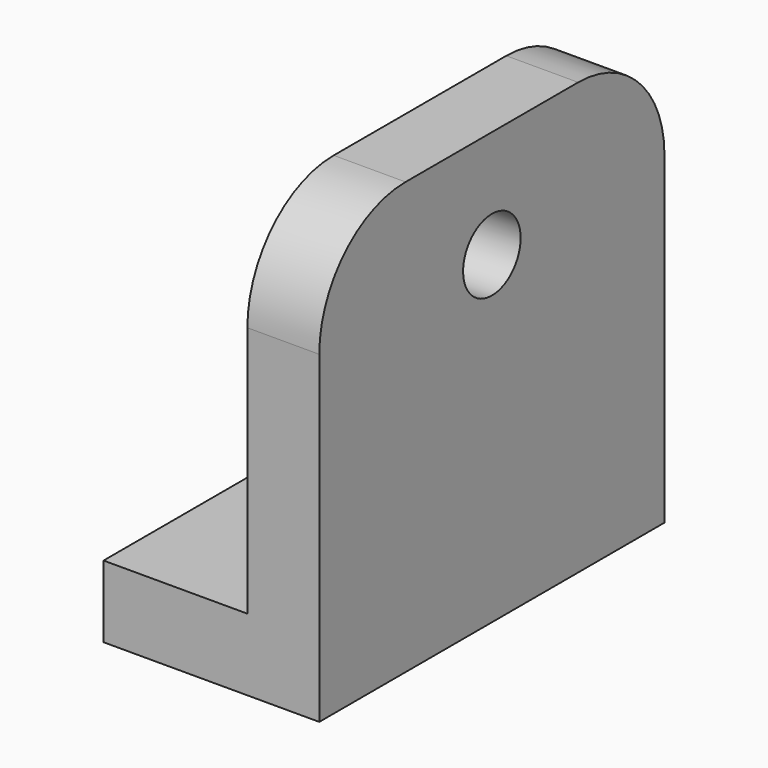
from build123d import *

# Parameters (mm, degrees)
F1_DEPTH = 76.2
F2_R     = 12.7
F3_DEPTH = 76.201
F5_DEPTH = 25.401
F6_R     = 19.05
F6_R_2   = 12.7
F7_DEPTH = 6.35
F8_R     = 38.1


with BuildPart() as f1:
    # F0 (on Front) → F1 (new body, symmetric)
    with BuildSketch(Plane.XZ):
        Polygon((-76.2, 0), (0, 0), (0, 152.4), (-25.4, 152.4), (-25.4, 25.4), (-76.2, 25.4), align=None)
    extrude(amount=F1_DEPTH, both=True)

    # F2 (on face) → F3 (cut, through all)
    with BuildSketch(Plane.YZ):
        with Locations((0, 114.3)):
            Circle(F2_R)
    extrude(amount=-F3_DEPTH, mode=Mode.SUBTRACT)

    # F4 (on face) → F5 (cut, through all)
    with BuildSketch(Plane.XY.offset(25.4)):
        with BuildLine():
            ThreePointArc((-63.5, -12.7), (-50.8, 0), (-63.5, 12.7))
            Line((-63.5, 12.7), (-76.2, 12.7))
            Line((-76.2, 12.7), (-76.2, 0))
            Line((-76.2, 0), (-76.2, -12.7))
            Line((-76.2, -12.7), (-63.5, -12.7))
        make_face()
    extrude(amount=-F5_DEPTH, mode=Mode.SUBTRACT)

    # F6 (on face) → F7 (cut)
    with BuildSketch(Plane(origin=(-25.4, 0, 0), x_dir=(0, -1, 0), z_dir=(-1, 0, 0))):
        with Locations((0, 114.3)):
            Circle(F6_R)
        with Locations((0, 114.3)):
            Circle(F6_R_2, mode=Mode.SUBTRACT)
    extrude(amount=-F7_DEPTH, mode=Mode.SUBTRACT)

    # F8
    f8_edges = [f1.edges().sort_by_distance(p)[0] for p in [
        (-12.7, -76.2, 152.4),
        (-12.7, 76.2, 152.4),
    ]]
    fillet(f8_edges, radius=F8_R)


solid = f1.part
